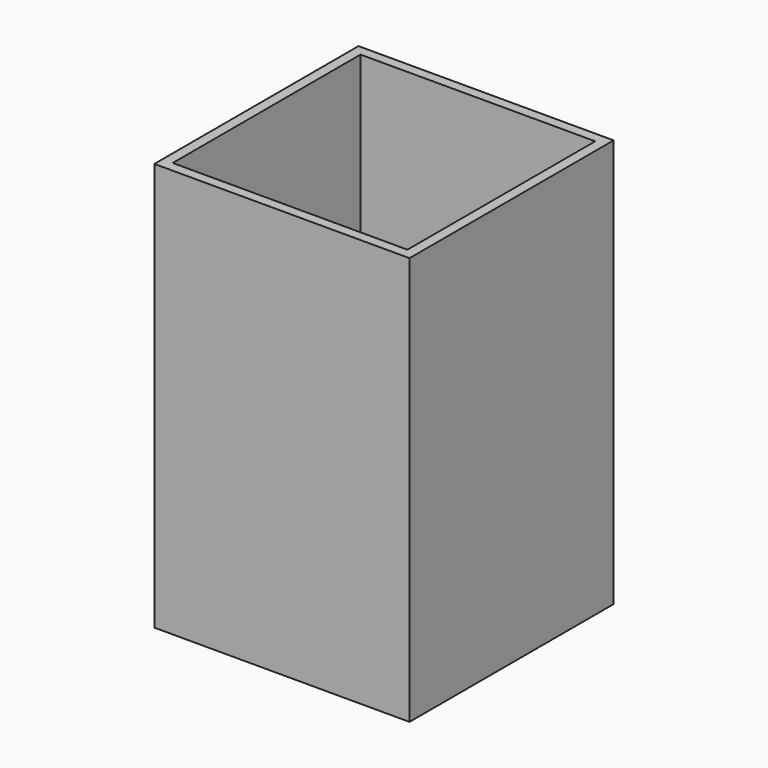
from build123d import *

# Parameters (mm, degrees)
BOX001_W     = 46
BOX001_H     = 46
BOX001_DEPTH = 76
BOX_W        = 50
BOX_H        = 50
BOX_DEPTH    = 80


with BuildPart() as cub001:
    # Box001 → Box001 (new body)
    with BuildSketch(Plane(origin=(2, 2, 4), x_dir=(1, 0, 0), z_dir=(0, 0, 1))):
        with Locations((23, 23)):
            Rectangle(BOX001_W, BOX001_H)
    extrude(amount=BOX001_DEPTH)


with BuildPart() as cut:
    # Box → Box (new body)
    with BuildSketch(Plane.XY):
        with Locations((25, 25)):
            Rectangle(BOX_W, BOX_H)
    extrude(amount=BOX_DEPTH)

    # Cut: cut Cub001
    add(cub001.part, mode=Mode.SUBTRACT)


solid = cut.part
